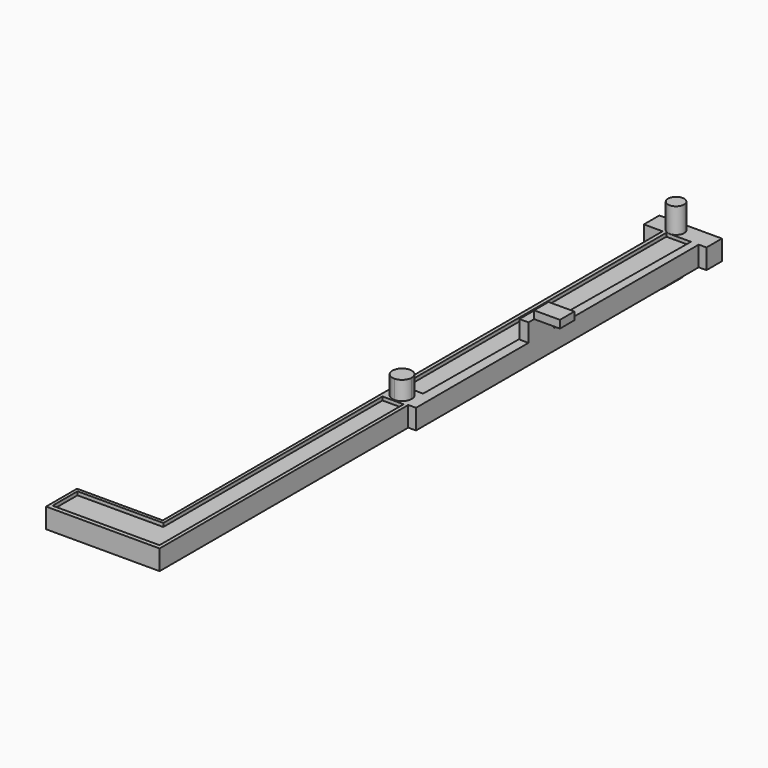
from build123d import *

# Parameters (mm, degrees)
F1_DEPTH  = 3.1
F3_DEPTH  = 2.1
F4_R      = 1.25
F5_DEPTH  = 3.9
F6_W      = 1.4
F6_H      = 5
F7_DEPTH  = 2.8
F8_W      = 4
F8_H      = 2.8
F9_DEPTH  = 1.2
F11_DEPTH = 2.9
F14_DEPTH = 0.55
F15_DEPTH = 0.55


with BuildPart() as f1:
    # F0 (on Top) → F1 (new body)
    with BuildSketch(Plane.XY):
        Polygon((0, 0), (0, 3), (-9.7, 3), (-9.7, 0), (-6.8, 0), (-6.7, -97), (-20, -97), (-20, -103), (-2.4, -103), (-2.4, -54.8), (-1.2, -54.8), (-1.2, 0), align=None)
    extrude(amount=F1_DEPTH)

    # F2 (on face) → F3 (join)
    with BuildSketch(Plane(origin=(0, 0, 0), x_dir=(1, 0, 0), z_dir=(0, 0, -1))):
        Polygon((-6.7938144363, 5.9999968116), (-6.8, 0), (-3.6200799611, -0.0032782681), (-3.615956252, 3.9967196063), align=None)
    extrude(amount=F3_DEPTH)

    # F4 (on face) → F5 (join)
    with BuildSketch(Plane.XY.offset(3.1)):
        with Locations((-5.7123401202, 1.25)):
            Circle(F4_R)
    extrude(amount=F5_DEPTH)

    # F6 (on face) → F7 (join)
    with BuildSketch(Plane.XY.offset(3.1)):
        with Locations((-1.9, -30.5)):
            Rectangle(F6_W, F6_H)
    extrude(amount=F7_DEPTH)

    # F10 (on face) → F11 (join)
    with BuildSketch(Plane.XY.offset(3.1)):
        with BuildLine():
            ThreePointArc((-4.5339315057, -54.8157951462), (-3.4804557737, -54.3725637742), (-3.0450340513, -53.3158362356))
            ThreePointArc((-3.0450340513, -53.3158362356), (-5.6096123289, -52.259108697), (-4.5339315057, -54.8157951462))
        make_face()
    extrude(amount=F11_DEPTH)

    # F13 (on face) → F14 (cut)
    with BuildSketch(Plane.XY.offset(3.1)):
        Polygon((-2.9493372479, -102.3303940892), (-2.9493372479, -55.0090484321), (-6.2264152803, -55.0090484321), (-6.2264152803, -97.4978655577), (-19.5306297392, -97.4978655577), (-19.5306297392, -102.3303940892), align=None)
    extrude(amount=-F14_DEPTH, mode=Mode.SUBTRACT)

    # F12 (on face) → F15 (cut)
    with BuildSketch(Plane.XY.offset(3.1)):
        Polygon((-2.8533523054, -51.3604094433), (-2.4, 0), (-6.213176353, -0.0039311096), (-6.213176353, -51.3307526708), align=None)
    extrude(amount=-F15_DEPTH, mode=Mode.SUBTRACT)


with BuildPart() as f9:
    # F8 (on face) → F9 (new body)
    with BuildSketch(Plane.XY.offset(5.9)):
        with Locations((0.8, -30.5)):
            Rectangle(F8_W, F8_H)
    extrude(amount=F9_DEPTH)


solid = Compound([f1.part, f9.part])
